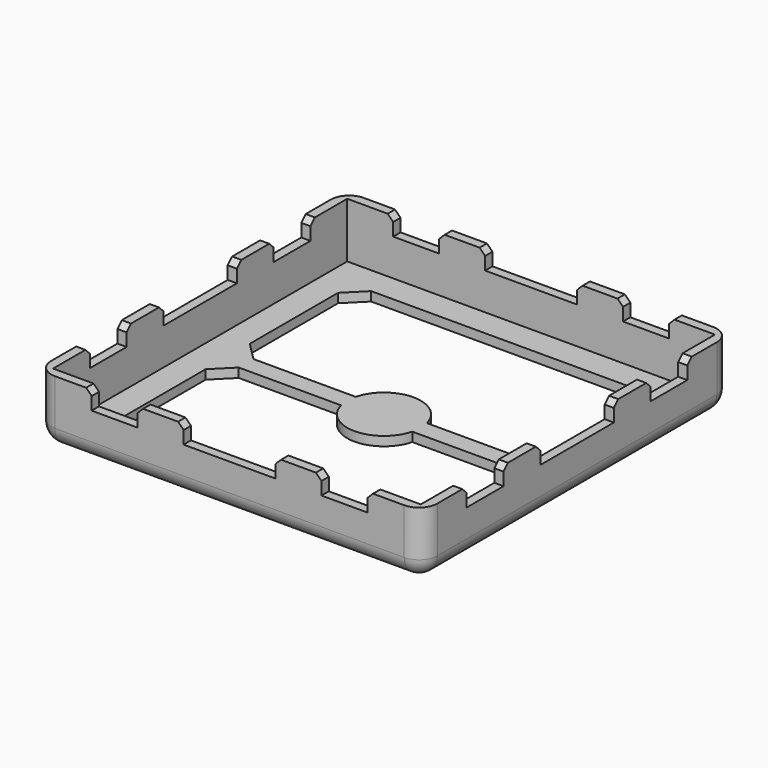
from build123d import *

# Parameters (mm, degrees)
SKETCH_W        = 21
SKETCH_H        = 21
PAD_DEPTH       = 3.5
COPYSKETCH001_W = 20
COPYSKETCH001_H = 20
POCKET_DEPTH    = 3
FILLET_R        = 1
SKETCH001_W     = 2.5
SKETCH001_H     = 2
SKETCH001_W_2   = 5
POCKET001_DEPTH = 21.001
SKETCH002_W     = 2.5
SKETCH002_H     = 2
SKETCH002_W_2   = 5
POCKET002_DEPTH = 21.001
CHAMFER_SIZE    = 0.3


with BuildPart() as part:
    # Sketch → Pad (new body)
    with BuildSketch(Plane.XY):
        Rectangle(SKETCH_W, SKETCH_H)
        with BuildLine():
            Line((-8.5, 7.5), (-7.5, 8.5))
            Line((-7.5, 8.5), (7.5, 8.5))
            Line((7.5, 8.5), (8.5, 7.5))
            Line((8.5, 7.5), (8.5, 1.5))
            Line((8.5, 1.5), (7.5, 0.5))
            Line((7.5, 0.5), (1.936492, 0.5))
            ThreePointArc((1.936492, 0.5), (0, 2), (-1.936492, 0.5))
            Line((-7.5, 0.5), (-1.936492, 0.5))
            Line((-8.5, 1.5), (-7.5, 0.5))
            Line((-8.5, 7.5), (-8.5, 1.5))
        make_face(mode=Mode.SUBTRACT)
        with BuildLine():
            Line((-8.5, -7.5), (-7.5, -8.5))
            Line((-7.5, -8.5), (7.5, -8.5))
            Line((7.5, -8.5), (8.5, -7.5))
            Line((8.5, -7.5), (8.5, -1.5))
            Line((8.5, -1.5), (7.5, -0.5))
            Line((7.5, -0.5), (1.936492, -0.5))
            ThreePointArc((-1.936492, -0.5), (0, -2), (1.936492, -0.5))
            Line((-7.5, -0.5), (-1.936492, -0.5))
            Line((-8.5, -1.5), (-7.5, -0.5))
            Line((-8.5, -7.5), (-8.5, -1.5))
        make_face(mode=Mode.SUBTRACT)
    extrude(amount=PAD_DEPTH)

    # CopySketch001 → Pocket (cut)
    with BuildSketch(Plane.XY.offset(3.5)):
        Rectangle(COPYSKETCH001_W, COPYSKETCH001_H)
    extrude(amount=-POCKET_DEPTH, mode=Mode.SUBTRACT)

    # Fillet
    fillet_edges = [part.edges().sort_by_distance(p)[0] for p in [
        (-10.5, 10.5, 1.75),
        (10.5, 10.5, 1.75),
        (10.5, -10.5, 1.75),
        (-10.5, -10.5, 1.75),
        (0, -10.5, 0),
        (-10.5, 0, 0),
        (0, 10.5, 0),
        (10.5, 0, 0),
    ]]
    fillet(fillet_edges, radius=FILLET_R)

    # Sketch001 (on Face7 of Fillet) → Pocket001 (cut, through all)
    with BuildSketch(Plane.YZ.offset(10.5)):
        with Locations((-6.25, 3.5)):
            Rectangle(SKETCH001_W, SKETCH001_H)
        with Locations((0, 3.5)):
            Rectangle(SKETCH001_W_2, SKETCH001_H)
        with Locations((6.25, 3.5)):
            Rectangle(SKETCH001_W, SKETCH001_H)
    extrude(amount=-POCKET001_DEPTH, mode=Mode.SUBTRACT)

    # Sketch002 (on Face1 of Pocket001) → Pocket002 (cut, through all)
    with BuildSketch(Plane(origin=(0, 10.5, 0), x_dir=(-1, 0, 0), z_dir=(0, 1, 0))):
        with Locations((-6.25, 3.5)):
            Rectangle(SKETCH002_W, SKETCH002_H)
        with Locations((0, 3.5)):
            Rectangle(SKETCH002_W_2, SKETCH002_H)
        with Locations((6.25, 3.5)):
            Rectangle(SKETCH002_W, SKETCH002_H)
    extrude(amount=-POCKET002_DEPTH, mode=Mode.SUBTRACT)

    # Chamfer
    chamfer_edges = [part.edges().sort_by_distance(p)[0] for p in [
        (10.25, -5, 3.5),
        (10.25, -2.5, 3.5),
        (10.25, 2.5, 3.5),
        (10.25, 5, 3.5),
        (10.25, -7.5, 3.5),
        (7.5, -10.25, 3.5),
        (5, -10.25, 3.5),
        (2.5, -10.25, 3.5),
        (-2.5, -10.25, 3.5),
        (-5, -10.25, 3.5),
        (-7.5, -10.25, 3.5),
        (-10.25, -7.5, 3.5),
        (-10.25, -5, 3.5),
        (-10.25, -2.5, 3.5),
        (-10.25, 2.5, 3.5),
        (-10.25, 5, 3.5),
        (-10.25, 7.5, 3.5),
        (5, 10.25, 3.5),
        (7.5, 10.25, 3.5),
        (10.25, 7.5, 3.5),
        (-2.5, 10.25, 3.5),
        (2.5, 10.25, 3.5),
        (-7.5, 10.25, 3.5),
        (-5, 10.25, 3.5),
    ]]
    chamfer(chamfer_edges, length=CHAMFER_SIZE)


solid = part.part
